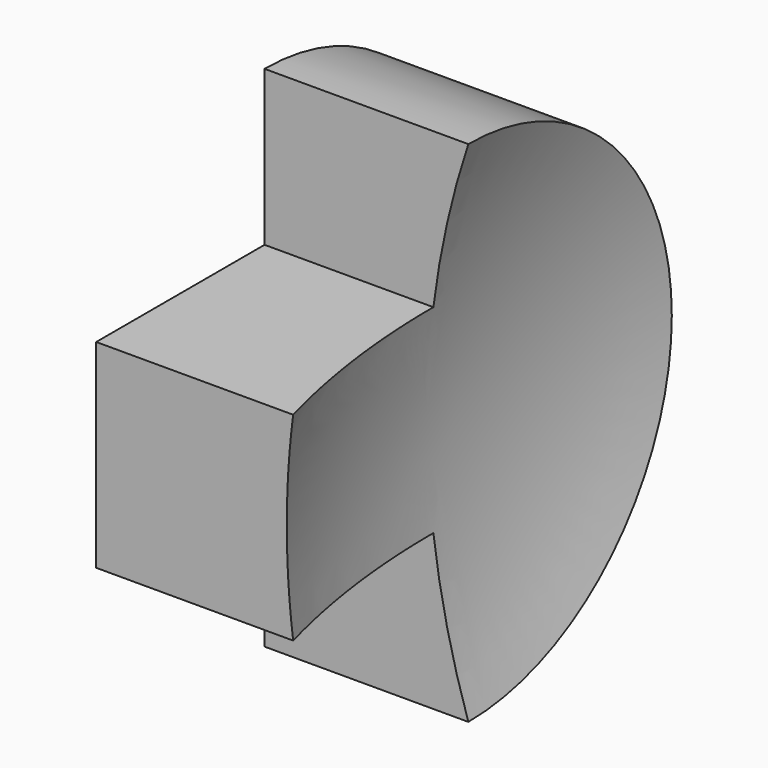
from build123d import *

# Parameters (mm, degrees)
F2_W     = 23.9537768066
F2_H     = 37.5745594501
F3_DEPTH = 61.5


with BuildPart() as f1:
    # F0 (on Front) → F1 (revolve)
    with BuildSketch(Plane.XZ):
        with BuildLine():
            Line((-38.5139174759, 0), (-7.7655697597, 0))
            ThreePointArc((-7.7655697597, 0), (-5.8116705722, 24.3437022549), (0, 48.0641163886))
            Line((0, 48.0641163886), (-38.5139174759, 48.0641163886))
            Line((-38.5139174759, 48.0641163886), (-38.5139174759, 0))
        make_face()
    revolve(axis=Axis((-19.256958738, 0, 0), (-1, 0, 0)))

    # F2 (on Right) → F3 (cut, symmetric)
    with BuildSketch(Plane.YZ):
        Polygon((0, -68.2604387403), (0, -18.7872797251), (-39.7664047778, -18.7872797251), (-63.7201815844, -18.7872797251), (-63.7201815844, -68.2604387403), align=None)
        with Locations((-51.7432931811, 0)):
            Rectangle(F2_W, F2_H)
        Polygon((-39.7664047778, 18.7872797251), (0, 18.7872797251), (0, 53.2306134701), (-63.7201815844, 53.2306134701), (-63.7201815844, 18.7872797251), align=None)
    extrude(amount=F3_DEPTH, both=True, mode=Mode.SUBTRACT)


solid = f1.part
